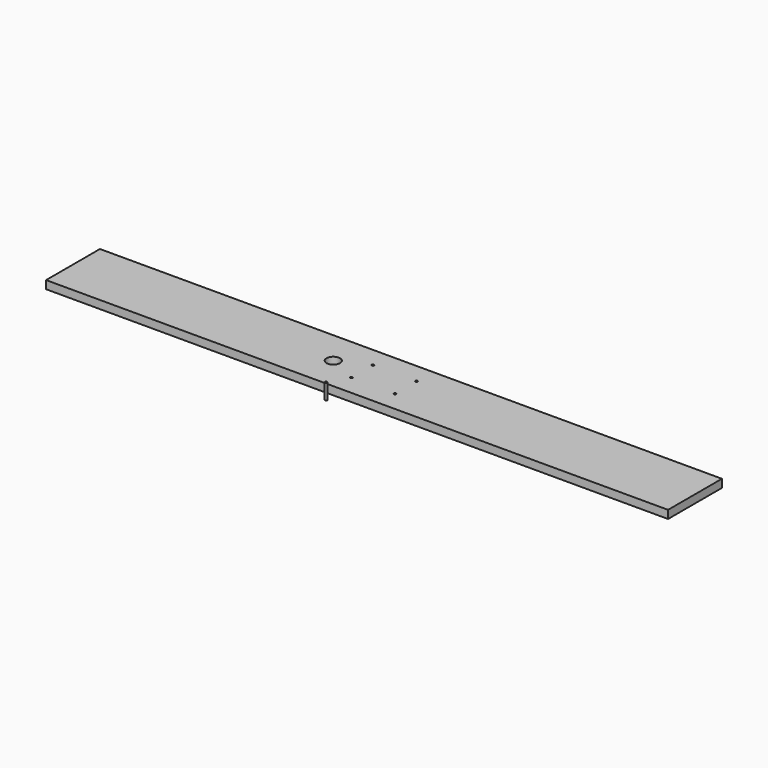
from build123d import *

# Parameters (mm, degrees)
F0_W     = 924
F0_H     = 100
F1_DEPTH = 12
F2_R     = 10
F3_DEPTH = 25
F2_R_2   = 1.7
F4_DEPTH = 25
F5_R     = 1.7
F6_DEPTH = 23


with BuildPart() as f1:
    # F0 (on Top) → F1 (new body)
    with BuildSketch(Plane.XY):
        Rectangle(F0_W, F0_H)
    extrude(amount=F1_DEPTH)

    # F2 (on face) → F3 (cut)
    with BuildSketch(Plane(origin=(0, 0, 0), x_dir=(1, 0, 0), z_dir=(0, 0, -1))):
        with Locations((-75.335987, 0)):
            Circle(F2_R)
    extrude(amount=-F3_DEPTH, mode=Mode.SUBTRACT)

    # F2 (on face) → F4 (cut)
    with BuildSketch(Plane(origin=(0, 0, 0), x_dir=(1, 0, 0), z_dir=(0, 0, -1))):
        with Locations((32.5, -20)):
            Circle(F2_R_2)
        with Locations((-32.5, -20)):
            Circle(F2_R_2)
        with Locations((32.5, 20)):
            Circle(F2_R_2)
        with Locations((-32.5, 20)):
            Circle(F2_R_2)
    extrude(amount=-F4_DEPTH, mode=Mode.SUBTRACT)


with BuildPart() as f6:
    # F5 (on Top) → F6 (new body)
    with BuildSketch(Plane.XY):
        with Locations((-34.728434, -64.114057)):
            Circle(F5_R)
    extrude(amount=F6_DEPTH)


solid = Compound([f1.part, f6.part])
